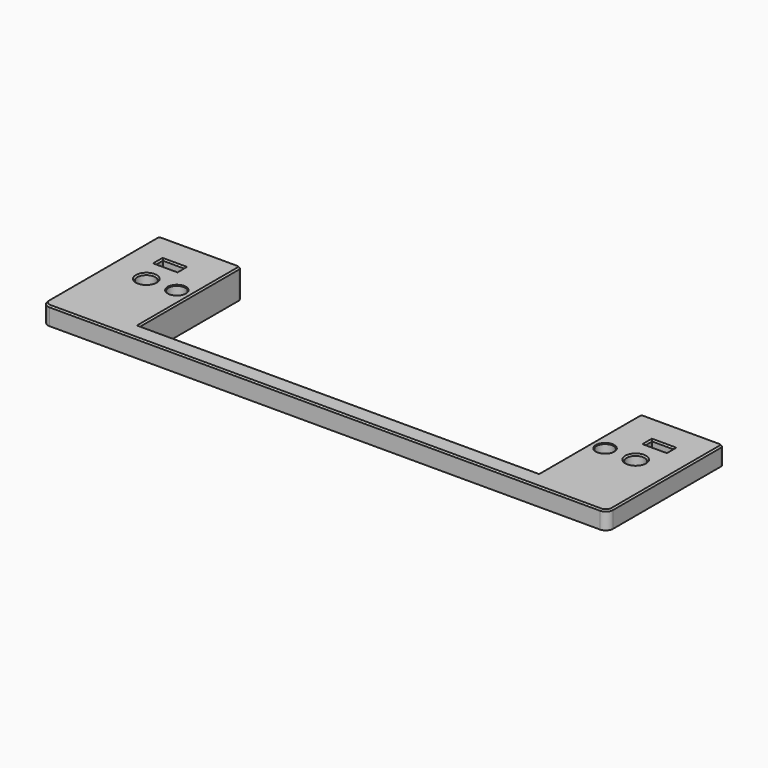
from build123d import *

# Parameters (mm, degrees)
SKETCH004_W     = 157
SKETCH004_H     = 40.5
PAD003_DEPTH    = 5
SKETCH005_W     = 146
SKETCH005_H     = 35
PAD004_DEPTH    = 8
FILLET003_R     = 2
SKETCH007_W     = 111
SKETCH007_H     = 36
POCKET002_DEPTH = 9
POCKET003_DEPTH = 5
SKETCH008_R     = 2.35
POCKET004_DEPTH = 5
FILLET004_R     = 1
FILLET005_R     = 2
FILLET006_R     = 1
SKETCH013_R     = 2.35
POCKET008_DEPTH = 5
SKETCH021_R     = 2.5
SKETCH021_W     = 6
SKETCH021_H     = 2.5
POCKET015_DEPTH = 8.001
CHAMFER002_SIZE = 0.4
CHAMFER003_SIZE = 0.2
CHAMFER008_SIZE = 0.4


with BuildPart() as part:
    # Sketch004 → Pad003 (new body)
    with BuildSketch(Plane.XY):
        with Locations((0, -20.75)):
            Rectangle(SKETCH004_W, SKETCH004_H)
    extrude(amount=PAD003_DEPTH)

    # Sketch005 (on Face6 of Pad003) → Pad004 (join)
    with BuildSketch(Plane.XY.offset(5)):
        with Locations((0, -18)):
            Rectangle(SKETCH005_W, SKETCH005_H)
    extrude(amount=-PAD004_DEPTH)

    # Fillet003
    fillet003_edges = [part.edges().sort_by_distance(p)[0] for p in [
        (73, -0.5, -1.5),
        (73, -35.5, -1.5),
        (-73, -35.5, -1.5),
        (-73, -0.5, -1.5),
    ]]
    fillet(fillet003_edges, radius=FILLET003_R)

    # Sketch007 (on Face15 of Fillet003) → Pocket002 (cut)
    with BuildSketch(Plane(origin=(0, 0, -3), x_dir=(1, 0, 0), z_dir=(0, 0, -1))):
        with Locations((0, 18)):
            Rectangle(SKETCH007_W, SKETCH007_H)
    extrude(amount=-POCKET002_DEPTH, mode=Mode.SUBTRACT)

    # Sketch007 (on Face15 of Fillet003) → Pocket003 (cut)
    with BuildSketch(Plane(origin=(0, 0, -3), x_dir=(1, 0, 0), z_dir=(0, 0, -1))):
        with Locations((0, 18)):
            Rectangle(SKETCH007_W, SKETCH007_H)
    extrude(amount=-POCKET003_DEPTH, mode=Mode.SUBTRACT)

    # Sketch008 (on Face23 of Pocket003) → Pocket004 (cut)
    with BuildSketch(Plane(origin=(0, 0, -3), x_dir=(1, 0, 0), z_dir=(0, 0, -1))):
        with Locations((-59.5, 31.5)):
            Circle(SKETCH008_R)
        with Locations((-59.5, 4.5)):
            Circle(SKETCH008_R)
        with Locations((59.5, 31.5)):
            Circle(SKETCH008_R)
        with Locations((59.5, 4.5)):
            Circle(SKETCH008_R)
    extrude(amount=-POCKET004_DEPTH, mode=Mode.SUBTRACT)

    # Fillet004
    fillet004_edges = [part.edges().sort_by_distance(p)[0] for p in [
        (55.5, -35.5, -1.5),
        (55.5, -0.5, -1.5),
        (-55.5, -35.5, -1.5),
        (-55.5, -0.5, -1.5),
    ]]
    fillet(fillet004_edges, radius=FILLET004_R)

    # Fillet005
    fillet005_edges = [part.edges().sort_by_distance(p)[0] for p in [
        (78.5, -41, 2.5),
        (-78.5, -41, 2.5),
    ]]
    fillet(fillet005_edges, radius=FILLET005_R)

    # Fillet006
    fillet006_edges = [part.edges().sort_by_distance(p)[0] for p in [
        (-78.5, -0.5, 2.5),
        (78.5, -0.5, 2.5),
    ]]
    fillet(fillet006_edges, radius=FILLET006_R)

    # Sketch013 (on Face35 of Fillet006) → Pocket008 (cut)
    with BuildSketch(Plane.XY.offset(5)):
        with Locations((-59.5, -18)):
            Circle(SKETCH013_R)
        with Locations((59.5, -18)):
            Circle(SKETCH013_R)
    extrude(amount=-POCKET008_DEPTH, mode=Mode.SUBTRACT)

    # Sketch021 (on Face30 of Pocket008) → Pocket015 (cut, through all)
    with BuildSketch(Plane.XY.offset(5)):
        with Locations((-68, -18)):
            Circle(SKETCH021_R)
        with Locations((68, -18)):
            Circle(SKETCH021_R)
        with Locations((-68, -9.75)):
            Rectangle(SKETCH021_W, SKETCH021_H)
        with Locations((68, -9.75)):
            Rectangle(SKETCH021_W, SKETCH021_H)
    extrude(amount=-POCKET015_DEPTH, mode=Mode.SUBTRACT)


with BuildPart() as part_1:
    # Body001 placement: moved
    add(part.part.moved(Location((0, 0, 40))))

    # Chamfer002
    chamfer002_edges = [part_1.edges().sort_by_distance(p)[0] for p in [
        (65.5, -18, 37),
        (71, -9.75, 37),
        (68, -11, 37),
        (65, -9.75, 37),
        (68, -8.5, 37),
        (-70.5, -18, 37),
        (-65, -9.75, 37),
        (-68, -11, 37),
        (-71, -9.75, 37),
        (-68, -8.5, 37),
        (65.5, -18, 45),
        (68, -8.5, 45),
        (71, -9.75, 45),
        (68, -11, 45),
        (65, -9.75, 45),
        (-70.5, -18, 45),
        (-68, -8.5, 45),
        (-65, -9.75, 45),
        (-68, -11, 45),
        (-71, -9.75, 45),
    ]]
    chamfer(chamfer002_edges, length=CHAMFER002_SIZE)

    # Chamfer003
    chamfer003_edges = [part_1.edges().sort_by_distance(p)[0] for p in [
        (57.15, -18, 45),
        (-61.85, -18, 45),
    ]]
    chamfer(chamfer003_edges, length=CHAMFER003_SIZE)

    # Chamfer008
    chamfer008_edges = [part_1.edges().sort_by_distance(p)[0] for p in [
        (78.5, -20.25, 45),
        (78.207107, -0.792893, 45),
        (67, -0.5, 45),
        (55.792893, -0.792893, 45),
        (55.5, -18.75, 45),
        (0, -36, 45),
        (-55.5, -18.75, 45),
        (-55.792893, -0.792893, 45),
        (-67, -0.5, 45),
        (-78.207107, -0.792893, 45),
        (-78.5, -20.25, 45),
        (-77.914214, -40.414214, 45),
        (0, -41, 45),
        (77.914214, -40.414214, 45),
    ]]
    chamfer(chamfer008_edges, length=CHAMFER008_SIZE)


with BuildPart() as part_2:
    # Chamfer008 placement: moved
    add(part_1.part.moved(Location((0, 0, -32))))


solid = part_2.part
